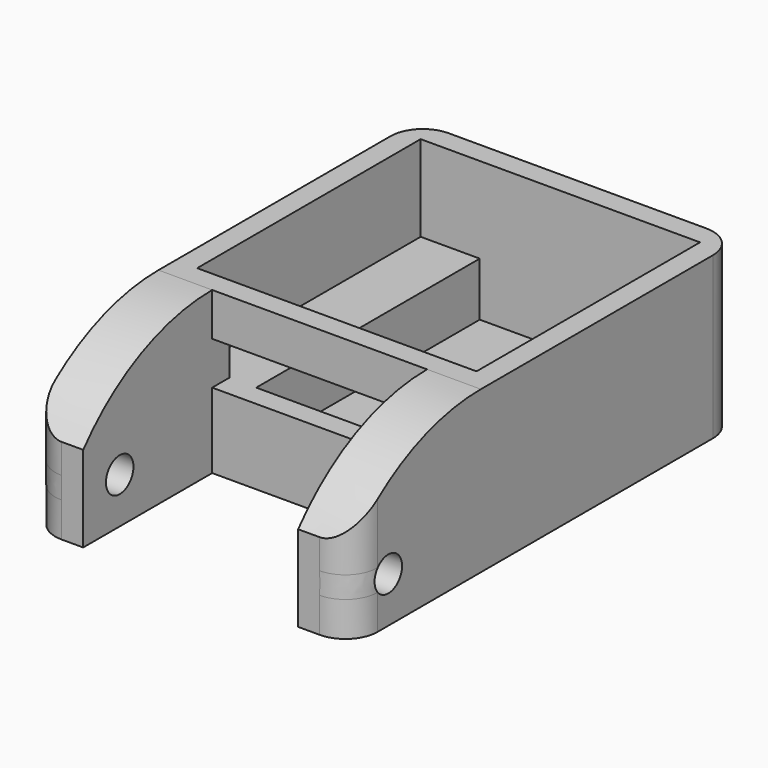
from build123d import *

# Parameters (mm, degrees)
SKETCH_W        = 30
SKETCH_H        = 30
PAD_DEPTH       = 15
SKETCH001_W     = 26
SKETCH001_H     = 26
POCKET_DEPTH    = 13
SKETCH002_W     = 5.5
SKETCH002_H     = 26
PAD001_DEPTH    = 5
SKETCH003_W     = 20
SKETCH003_H     = 4
POCKET001_DEPTH = 5
SKETCH004_R     = 4
POCKET002_DEPTH = 5
SKETCH005_W     = 5
SKETCH005_H     = 15
PAD002_DEPTH    = 15
SKETCH006_R     = 1.6
POCKET003_DEPTH = 30.001
FILLET_R        = 3
FILLET001_R     = 3
FILLET002_R     = 1


with BuildPart() as part:
    # Sketch → Pad (new body)
    with BuildSketch(Plane.XY):
        with Locations((-15, 15)):
            Rectangle(SKETCH_W, SKETCH_H)
    extrude(amount=PAD_DEPTH)

    # Sketch001 (on Face6 of Pad) → Pocket (cut)
    with BuildSketch(Plane.XY.offset(15)):
        with Locations((-15, 15)):
            Rectangle(SKETCH001_W, SKETCH001_H)
    extrude(amount=-POCKET_DEPTH, mode=Mode.SUBTRACT)

    # Sketch002 (on Face11 of Pocket) → Pad001 (join)
    with BuildSketch(Plane.XY.offset(2)):
        with Locations((-25.25, 15)):
            Rectangle(SKETCH002_W, SKETCH002_H)
        with Locations((-4.75, 15)):
            Rectangle(SKETCH002_W, SKETCH002_H)
    extrude(amount=PAD001_DEPTH)

    # Sketch003 (on Face9 of Pad001) → Pocket001 (cut)
    with BuildSketch(Plane(origin=(0, 2, 0), x_dir=(-1, 0, 0), z_dir=(0, 1, 0))):
        with Locations((15, 9)):
            Rectangle(SKETCH003_W, SKETCH003_H)
    extrude(amount=-POCKET001_DEPTH, mode=Mode.SUBTRACT)

    # Sketch004 (on Face19 of Pocket001) → Pocket002 (cut)
    with BuildSketch(Plane.XY.offset(2)):
        with Locations((-15, 12.5)):
            Circle(SKETCH004_R)
    extrude(amount=-POCKET002_DEPTH, mode=Mode.SUBTRACT)

    # Sketch005 (on Face1 of Pocket002) → Pad002 (join)
    with BuildSketch(Plane.XZ):
        with Locations((-27.5, 7.5)):
            Rectangle(SKETCH005_W, SKETCH005_H)
        with Locations((-2.5, 7.5)):
            Rectangle(SKETCH005_W, SKETCH005_H)
    extrude(amount=PAD002_DEPTH)

    # Sketch006 (on Face22 of Pad002) → Pocket003 (cut, through all)
    with BuildSketch(Plane.YZ):
        with Locations((-10.757359, 4.242641)):
            Circle(SKETCH006_R)
        with BuildLine():
            ThreePointArc((0, 15), (-8.276473, 13.16387), (-15, 8))
            Line((-15, 8), (-15, 15))
            Line((-15, 15), (0, 15))
        make_face()
    extrude(amount=-POCKET003_DEPTH, mode=Mode.SUBTRACT)

    # Fillet
    fillet_edges = [part.edges().sort_by_distance(p)[0] for p in [
        (-30, 30, 7.5),
        (0, 30, 7.5),
    ]]
    fillet(fillet_edges, radius=FILLET_R)

    # Fillet001
    fillet001_edges = [part.edges().sort_by_distance(p)[0] for p in [
        (-30, -15, 4),
        (0, -15, 4),
    ]]
    fillet(fillet001_edges, radius=FILLET001_R)

    # Fillet002
    fillet002_edges = [part.edges().sort_by_distance(p)[0] for p in [
        (-19, 12.5, 0),
    ]]
    fillet(fillet002_edges, radius=FILLET002_R)


solid = part.part
